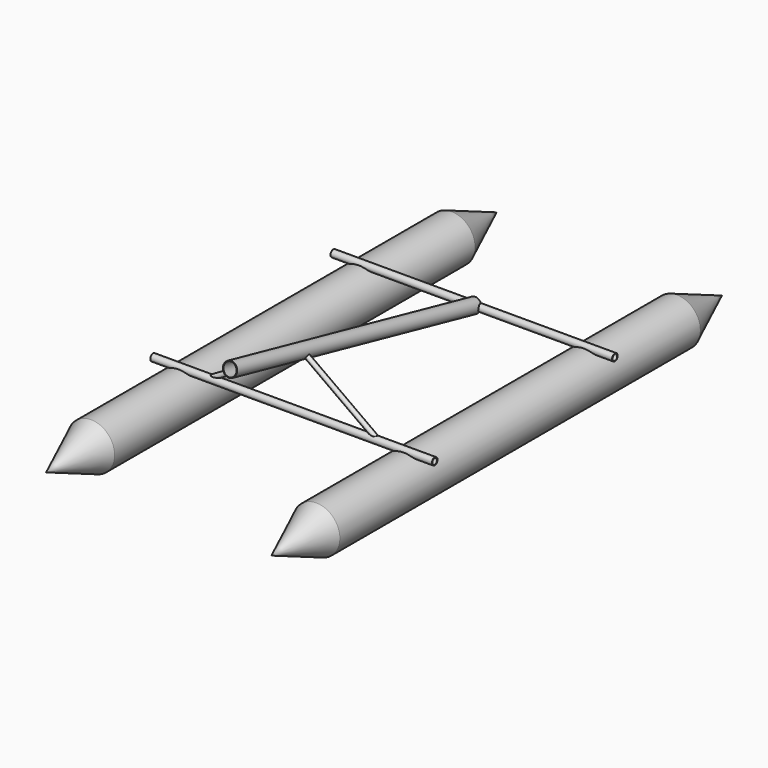
from build123d import *

# Parameters (mm, degrees)
F7_R     = 19.05
F7_R_2   = 15.875
F8_DEPTH = 762
F12_R    = 12.7
F12_R_2  = 11.0998


with BuildPart() as f3:
    # F2 (on offset) → F3 (revolve)
    with BuildSketch(Plane.YZ.offset(609.6)):
        Polygon((1219.2, 127), (-1219.2, 127), (-1524, 0), (1524, 0), align=None)
    revolve(axis=Axis((609.6, 0, 0), (0, 1, 0)))


with BuildPart() as f4_1:
    # F4: instance of F3
    add(f3.part.mirror(Plane.YZ))


with BuildPart() as f6:
    # F5 (on Right) → F6 (revolve)
    with BuildSketch(Plane.YZ):
        Polygon((-1033.2662311045, 530.2397243676), (-1033.9534268788, 527.139984545), (617.1591535168, 161.0971380487), (617.846349291, 164.1968778713), align=None)
    revolve(axis=Axis((0, -215.9562901978, 310.0214232482), (0, -0.9762960071, 0.2164396139)))


with BuildPart() as f8:
    # F7 (on Right) → F8 (new body, symmetric)
    with BuildSketch(Plane.YZ):
        with Locations((-609.6, 127)):
            Circle(F7_R)
        with Locations((-609.6, 127)):
            Circle(F7_R_2, mode=Mode.SUBTRACT)
    extrude(amount=F8_DEPTH, both=True)


with BuildPart() as f8b:
    # F7 (on Right) → F8, piece 2 (new body, symmetric)
    with BuildSketch(Plane.YZ):
        with Locations((609.6, 127)):
            Circle(F7_R)
        with Locations((609.6, 127)):
            Circle(F7_R_2, mode=Mode.SUBTRACT)
    extrude(amount=F8_DEPTH, both=True)


with BuildPart() as f13:
    # F13: sweep along a path in F10
    with BuildLine(Plane(origin=(0, -607.8788731093, 134.7635017017), x_dir=(1, 0, 0), z_dir=(0, -0.9762960071, 0.2164396139))) as f13_path:
        Line((457.2, -7.9519957524), (0, 255.9311815609))
    # F12 (on line) → F13 (sweep)
    with BuildSketch(Plane(origin=(346.3956329204, -43.2727645455, -195.1908270125), x_dir=(-0.0942599861, -0.9941297141, 0.0531146553), z_dir=(-0.8660921382, 0.1081947854, 0.4880351386))):
        with Locations((569.6713692747, 335.0904436434)):
            Circle(F12_R)
        with Locations((569.6713692747, 335.0904436434)):
            Circle(F12_R_2, mode=Mode.SUBTRACT)
    sweep(path=f13_path.line)

    # F14: F13 across plane


with BuildPart() as f13_1:
    add(f13.part)
    add(f13.part.mirror(Plane.YZ))


solid = Compound([f3.part, f4_1.part, f6.part, f8.part, f8b.part, f13_1.part])
